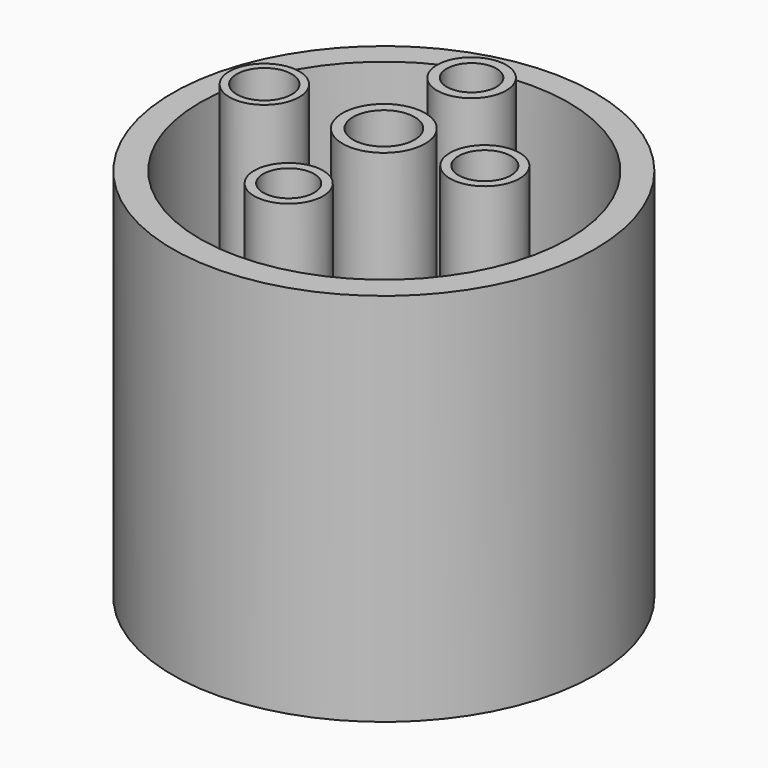
from build123d import *

# Parameters (mm, degrees)
F0_R     = 56.334368
F0_R_2   = 49.169238
F1_DEPTH = 100
F3_DEPTH = 25
F4_DEPTH = 10
F5_R     = 11.028269
F5_R_2   = 8.205737
F5_R_3   = 9.231192
F5_R_4   = 6.622097
F5_R_5   = 9.284198
F5_R_6   = 6.989631
F5_R_7   = 9.315085
F5_R_8   = 7.337153
F5_R_9   = 9.189609
F5_R_10  = 6.786331
F6_DEPTH = 100


with BuildPart() as f1:
    # F0 (on Top) → F1 (new body)
    with BuildSketch(Plane.XY):
        Circle(F0_R)
        with Locations((0, 0.154715)):
            Circle(F0_R_2, mode=Mode.SUBTRACT)
    extrude(amount=F1_DEPTH)

    # F0 (on Top) → F3 (join)
    with BuildSketch(Plane.XY):
        Circle(F0_R)
        with Locations((0, 0.154715)):
            Circle(F0_R_2, mode=Mode.SUBTRACT)
    extrude(amount=F3_DEPTH)

    # F0 (on Top) → F4 (join)
    with BuildSketch(Plane.XY):
        with Locations((0, 0.154715)):
            Circle(F0_R_2)
    extrude(amount=F4_DEPTH)

    # F5 (on face) → F6 (join)
    with BuildSketch(Plane.XY.offset(10)):
        Circle(F5_R)
        Circle(F5_R_2, mode=Mode.SUBTRACT)
        with Locations((0, 29.241161)):
            Circle(F5_R_3)
        with Locations((0, 29.241161)):
            Circle(F5_R_4, mode=Mode.SUBTRACT)
        with Locations((26.920432, 0)):
            Circle(F5_R_5)
        with Locations((26.920432, 0)):
            Circle(F5_R_6, mode=Mode.SUBTRACT)
        with Locations((-31.871319, 0)):
            Circle(F5_R_7)
        with Locations((-31.871319, 0)):
            Circle(F5_R_8, mode=Mode.SUBTRACT)
        with Locations((0, -31.716604)):
            Circle(F5_R_9)
        with Locations((0, -31.716604)):
            Circle(F5_R_10, mode=Mode.SUBTRACT)
    extrude(amount=F6_DEPTH)


solid = f1.part
